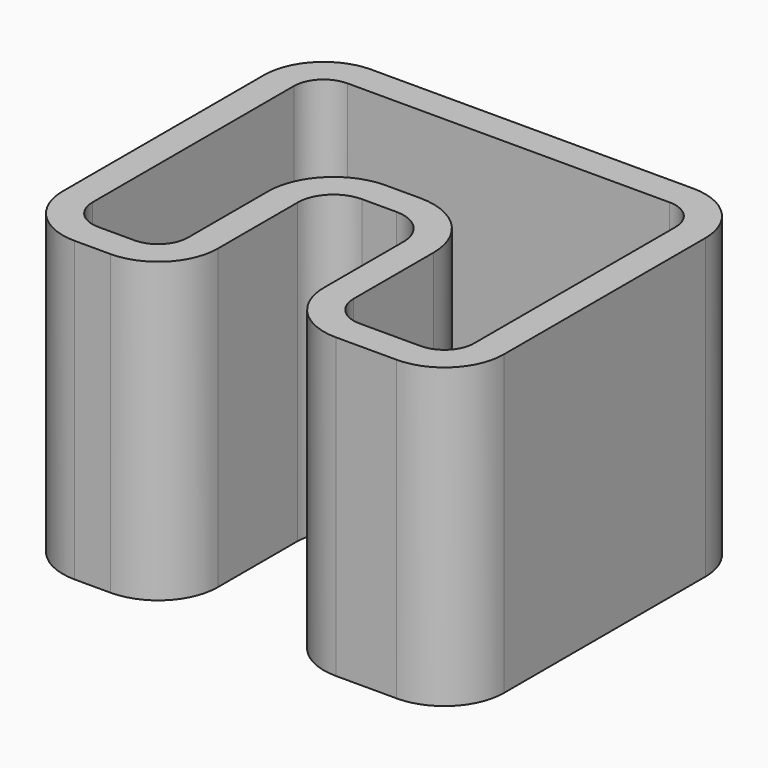
from build123d import *

# Parameters (mm, degrees)
F1_DEPTH = 25
F2_T     = -2.5


with BuildPart() as f1:
    # F0 (on Top) → F1 (new body)
    with BuildSketch(Plane.XY):
        with BuildLine():
            ThreePointArc((0, 5), (1.464466, 1.464466), (5, 0))
            Line((5, 0), (8.007363, 0))
            ThreePointArc((8.007363, 0), (11.542897, 1.464466), (13.007363, 5))
            Line((13.007363, 5), (13.007363, 13.368118))
            ThreePointArc((13.007363, 13.368118), (13.886043, 15.489438), (16.007363, 16.368118))
            Line((16.007363, 16.368118), (18.897251, 16.368118))
            ThreePointArc((18.897251, 16.368118), (21.018571, 15.489438), (21.897251, 13.368118))
            Line((21.897251, 13.368118), (21.897251, 5))
            ThreePointArc((21.897251, 5), (23.361717, 1.464466), (26.897251, 0))
            Line((26.897251, 0), (32.005447, 0))
            ThreePointArc((32.005447, 0), (35.540981, 1.464466), (37.005447, 5))
            Line((37.005447, 5), (37.005447, 26.097955))
            ThreePointArc((37.005447, 26.097955), (35.540981, 29.633489), (32.005447, 31.097955))
            Line((32.005447, 31.097955), (5, 31.097955))
            ThreePointArc((5, 31.097955), (1.464466, 29.633489), (0, 26.097955))
            Line((0, 26.097955), (0, 5))
        make_face()
    extrude(amount=F1_DEPTH)

    # F2
    f2_openings = [f1.faces().sort_by_distance(p)[0] for p in [
        (18.666559, 16.805031, 25),
    ]]
    offset(amount=F2_T, openings=f2_openings)


solid = f1.part
